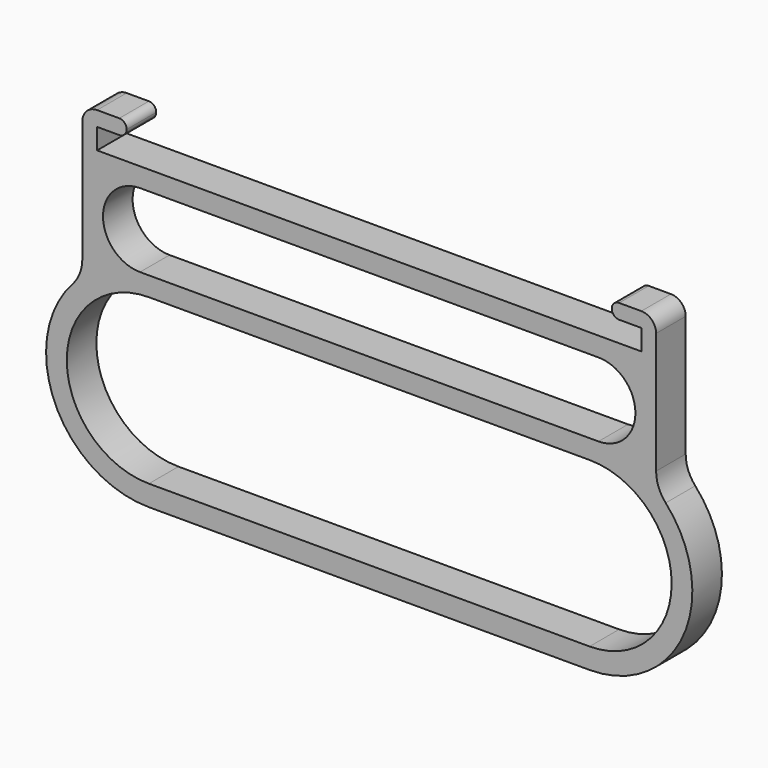
from build123d import *

# Parameters (mm, degrees)
F1_DEPTH = 5


with BuildPart() as f1:
    # F0 (on Front) → F1 (new body)
    with BuildSketch(Plane.XZ):
        with BuildLine():
            Line((-29.8, -13.9), (29.8, -13.9))
            ThreePointArc((29.8, -13.9), (42.508398, -5.630864), (40.096296, 9.337895))
            ThreePointArc((40.096296, 9.337895), (39.135318, 10.896644), (38.8, 12.69685))
            Line((38.8, 12.69685), (38.8, 29.1))
            ThreePointArc((38.8, 29.1), (38.214214, 30.514214), (36.8, 31.1))
            Line((36.8, 31.1), (33.8, 31.1))
            ThreePointArc((33.8, 31.1), (33.092893, 30.807107), (32.8, 30.1))
            ThreePointArc((32.8, 30.1), (33.092893, 29.392893), (33.8, 29.1))
            Line((33.8, 29.1), (36.8, 29.1))
            Line((36.8, 29.1), (36.8, 26.3))
            Line((36.8, 26.3), (-36.8, 26.3))
            Line((-36.8, 26.3), (-36.8, 29.1))
            Line((-36.8, 29.1), (-33.8, 29.1))
            ThreePointArc((-33.8, 29.1), (-33.092893, 29.392893), (-32.8, 30.1))
            ThreePointArc((-32.8, 30.1), (-33.092893, 30.807107), (-33.8, 31.1))
            Line((-33.8, 31.1), (-36.8, 31.1))
            ThreePointArc((-36.8, 31.1), (-38.214214, 30.514214), (-38.8, 29.1))
            Line((-38.8, 29.1), (-38.8, 12.69685))
            ThreePointArc((-38.8, 12.69685), (-39.135318, 10.896644), (-40.096296, 9.337895))
            ThreePointArc((-40.096296, 9.337895), (-42.508398, -5.630864), (-29.8, -13.9))
        make_face()
        with BuildLine():
            ThreePointArc((29.8, 11.1), (40.9, 0), (29.8, -11.1))
            Line((29.8, -11.1), (-29.8, -11.1))
            ThreePointArc((-29.8, -11.1), (-40.9, 0), (-29.8, 11.1))
            Line((-29.8, 11.1), (29.8, 11.1))
        make_face(mode=Mode.SUBTRACT)
        with BuildLine():
            ThreePointArc((-31, 13.7), (-36, 18.7), (-31, 23.7))
            Line((-31, 23.7), (31, 23.7))
            ThreePointArc((31, 23.7), (36, 18.7), (31, 13.7))
            Line((31, 13.7), (-31, 13.7))
        make_face(mode=Mode.SUBTRACT)
    extrude(amount=F1_DEPTH)


solid = f1.part
